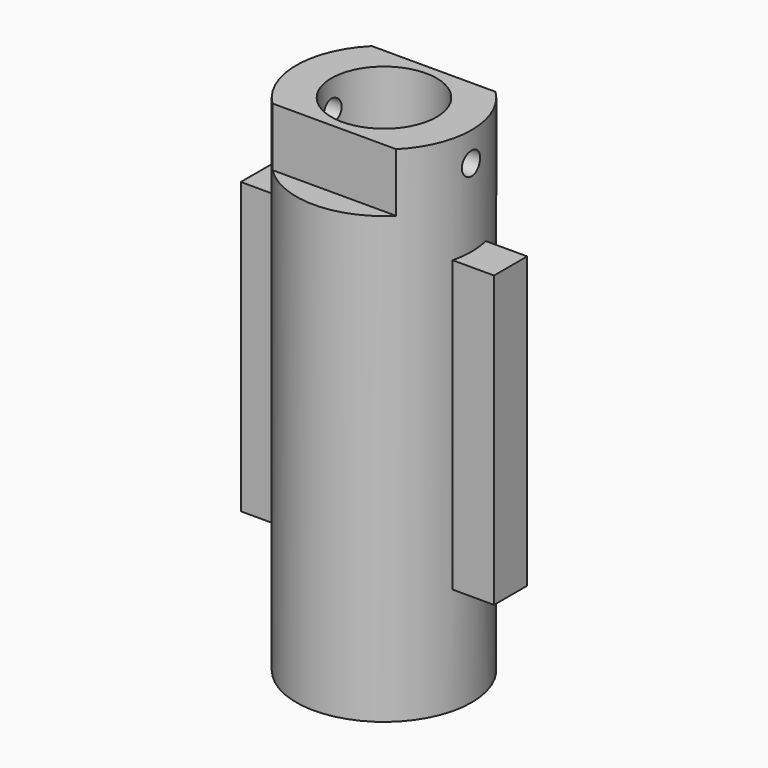
from build123d import *

# Parameters (mm, degrees)
F0_R     = 12.7
F0_R_2   = 7.62
F1_DEPTH = 36.5
F3_DEPTH = 21
F4_W     = 43.0633045018
F4_H     = 8.1969123185
F4_H_2   = 6.7737210393
F5_DEPTH = 8.5
F8_D     = 3.3
F8_DEPTH = 30
F8_TIP   = 0.9914200214


with BuildPart() as f1:
    # F0 (on Top) → F1 (new body, symmetric)
    with BuildSketch(Plane.XY):
        Circle(F0_R)
        Circle(F0_R_2, mode=Mode.SUBTRACT)
    extrude(amount=F1_DEPTH, both=True)

    # F2 (on Top) → F3 (join, symmetric)
    with BuildSketch(Plane.XY):
        with BuildLine():
            Line((12.3405834546, -3), (18.3405834546, -3))
            Line((18.3405834546, -3), (18.3405834546, 3))
            Line((18.3405834546, 3), (12.3405834546, 3))
            ThreePointArc((12.3405834546, 3), (12.7, 0), (12.3405834546, -3))
        make_face()
        with BuildLine():
            Line((-12.3405834546, 3), (-18.3405834546, 3))
            Line((-18.3405834546, 3), (-18.3405834546, -3))
            Line((-18.3405834546, -3), (-12.3405834546, -3))
            ThreePointArc((-12.3405834546, -3), (-12.7, 0), (-12.3405834546, 3))
        make_face()
    extrude(amount=F3_DEPTH, both=True)

    # F4 (on face) → F5 (cut)
    with BuildSketch(Plane.XY.offset(36.5)):
        with Locations((0, -13.0984561592)):
            Rectangle(F4_W, F4_H)
        with Locations((0, 12.3868605196)):
            Rectangle(F4_W, F4_H_2)
    extrude(amount=-F5_DEPTH, mode=Mode.SUBTRACT)

    # F8
    with Locations(Plane.YZ.offset(12.7)):
        with Locations((0, 32.25)):
            Hole(F8_D / 2, depth=F8_DEPTH)
            with Locations((0, 0, -(F8_DEPTH + F8_TIP / 2))):  # 118° drill point
                Cone(0, F8_D / 2, F8_TIP, mode=Mode.SUBTRACT)


solid = f1.part
